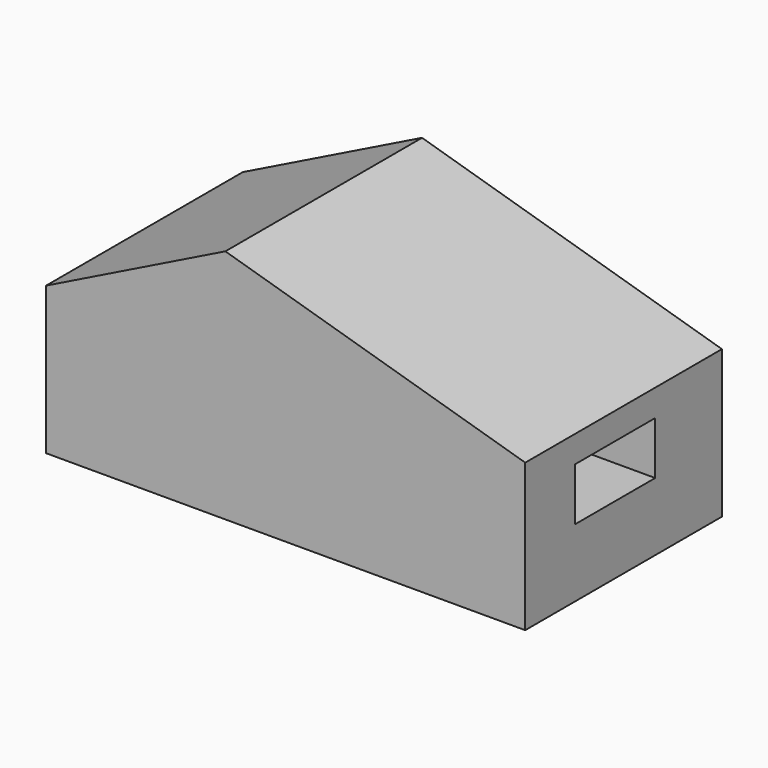
from build123d import *

# Parameters (mm, degrees)
F1_DEPTH = 5080
F2_W     = 2067.558765
F2_H     = 1091.233373
F3_DEPTH = 9899.983518


with BuildPart() as f1:
    # F0 (on Front) → F1 (new body)
    with BuildSketch(Plane.XZ):
        Polygon((0, 3048), (0, 0), (3670.44008, 0), (9899.982518, 0), (9899.982518, 3048), (3704.34847, 4876.8), align=None)
    extrude(amount=F1_DEPTH)

    # F2 (on face) → F3 (cut, through all)
    with BuildSketch(Plane.YZ.offset(9899.982518)):
        with Locations((-2756.765842, 1949.31215)):
            Rectangle(F2_W, F2_H)
    extrude(amount=-F3_DEPTH, mode=Mode.SUBTRACT)


solid = f1.part
